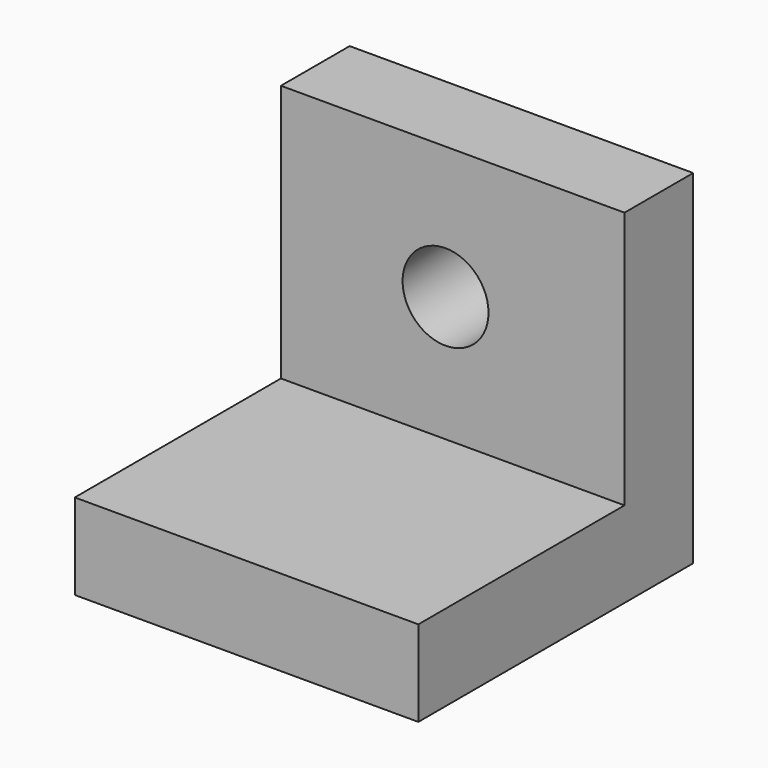
from build123d import *

# Parameters (mm, degrees)
F0_W     = 50.8
F0_H     = 50.8
F1_DEPTH = 12.7
F2_W     = 50.8
F2_H     = 12.7
F3_DEPTH = 50.8
F4_R     = 6.35
F5_DEPTH = 12.7


with BuildPart() as f1:
    # F0 (on Top) → F1 (new body)
    with BuildSketch(Plane.XY):
        with Locations((25.4, -25.4)):
            Rectangle(F0_W, F0_H)
    extrude(amount=F1_DEPTH)

    # F2 (on Top) → F3 (join)
    with BuildSketch(Plane.XY):
        with Locations((25.4, -6.35)):
            Rectangle(F2_W, F2_H)
    extrude(amount=F3_DEPTH)

    # F4 (on Front) → F5 (cut, symmetric)
    with BuildSketch(Plane.XZ):
        with Locations((24.342207, 31.224607)):
            Circle(F4_R)
    extrude(amount=F5_DEPTH, both=True, mode=Mode.SUBTRACT)


solid = f1.part
